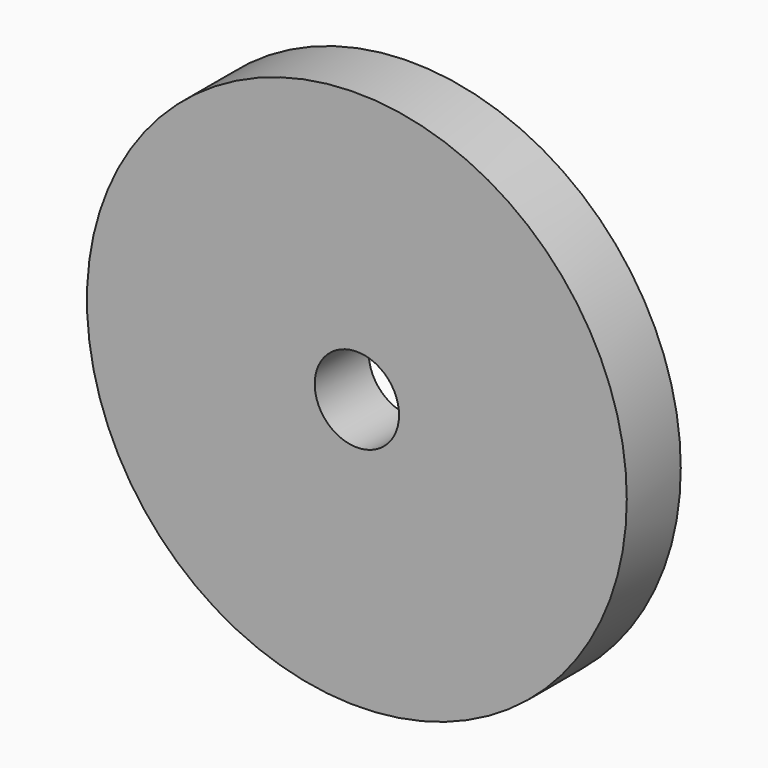
from build123d import *

# Parameters (mm, degrees)
F1_R     = 101.6
F1_R_2   = 15.875
F2_DEPTH = 25.4


with BuildPart() as f2:
    # F1 (on face) → F2 (new body)
    with BuildSketch(Plane.XZ):
        Circle(F1_R)
        Circle(F1_R_2, mode=Mode.SUBTRACT)
    extrude(amount=F2_DEPTH)


solid = f2.part
